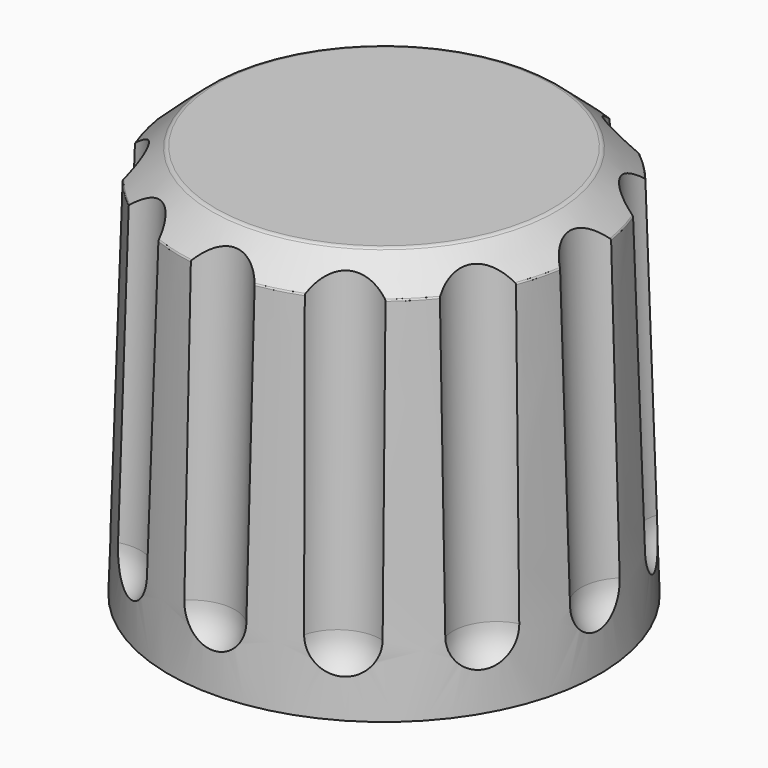
from build123d import *

# Parameters (mm, degrees)
BOX_W                  = 6
BOX_H                  = 3
BOX_DEPTH              = 6
CYLINDER_R             = 1.85
CYLINDER_DEPTH         = 16
FUSION_PLACEMENT_ANGLE = 2
ARRAY_COUNT            = 12


with BuildPart() as box:
    # Box → Box (new body)
    with BuildSketch(Plane(origin=(-3, 1.5, 9.5), x_dir=(1, 0, 0), z_dir=(0, 0, 1))):
        with Locations((3, 1.5)):
            Rectangle(BOX_W, BOX_H)
    extrude(amount=BOX_DEPTH)


with BuildPart() as sphere:
    # Sphere → Sphere (revolve)
    with BuildSketch(Plane.XZ):
        with BuildLine():
            ThreePointArc((0, -1.85), (1.85, 0), (0, 1.85))
            Line((0, 1.85), (0, -1.85))
        make_face()
    revolve(axis=Axis((0, 0, 0), (0, 0, 1)))


with BuildPart() as array:
    # Cylinder → Cylinder (new body)
    with BuildSketch(Plane.XY):
        Circle(CYLINDER_R)
    extrude(amount=CYLINDER_DEPTH)

    # Fusion: union Sphere
    add(sphere.part)


with BuildPart() as array_1:
    # Fusion placement: moved
    add(array.part.moved(Location((0, 10.63, 3.2))).rotate(Axis((0, 10.63, 3.2), (1, 0, 0)), FUSION_PLACEMENT_ANGLE))

    # Array: Array ×12 about axis
    array_axis = Axis((0, 0, 0), (0, 0, 1))


with BuildPart() as array_2:
    add(array_1.part)
    for i in range(1, ARRAY_COUNT):
        add(array_1.part.rotate(array_axis, i * 360 / ARRAY_COUNT))


with BuildPart() as fusion001:
    # Sketch → Revolve (revolve)
    with BuildSketch(Plane.YZ):
        with BuildLine():
            Line((0, 17.6), (7.5, 17.6))
            ThreePointArc((7.675569, 17.534507), (7.593693, 17.583094), (7.5, 17.6))
            Line((9.065682, 16.329743), (7.675569, 17.534507))
            ThreePointArc((9.101392, 16.254608), (9.091407, 16.295916), (9.065682, 16.329743))
            Line((9.6, 0), (9.101392, 16.254608))
            Line((7.726744, 0), (9.6, 0))
            ThreePointArc((7.107214, 0.518508), (7.322805, 0.146731), (7.726744, 0))
            Line((7.107214, 0.518508), (5.61824, 8.839249))
            ThreePointArc((5.61824, 8.839249), (5.343506, 9.313015), (4.828753, 9.5))
            Line((4.828753, 9.5), (3.258713, 9.5))
            ThreePointArc((3.2, 9.558713), (3.217197, 9.517197), (3.258713, 9.5))
            Line((3.2, 9.558713), (3.2, 15.143204))
            ThreePointArc((3.2, 15.143204), (3.124786, 15.324786), (2.943204, 15.4))
            Line((2.943204, 15.4), (0, 15.4))
            Line((0, 17.6), (0, 15.4))
        make_face()
    revolve(axis=Axis((0, 0, 0), (0, 0, 1)))

    # Cut: cut Array
    add(array_2.part, mode=Mode.SUBTRACT)

    # Fusion001: union Box
    add(box.part)


solid = fusion001.part
